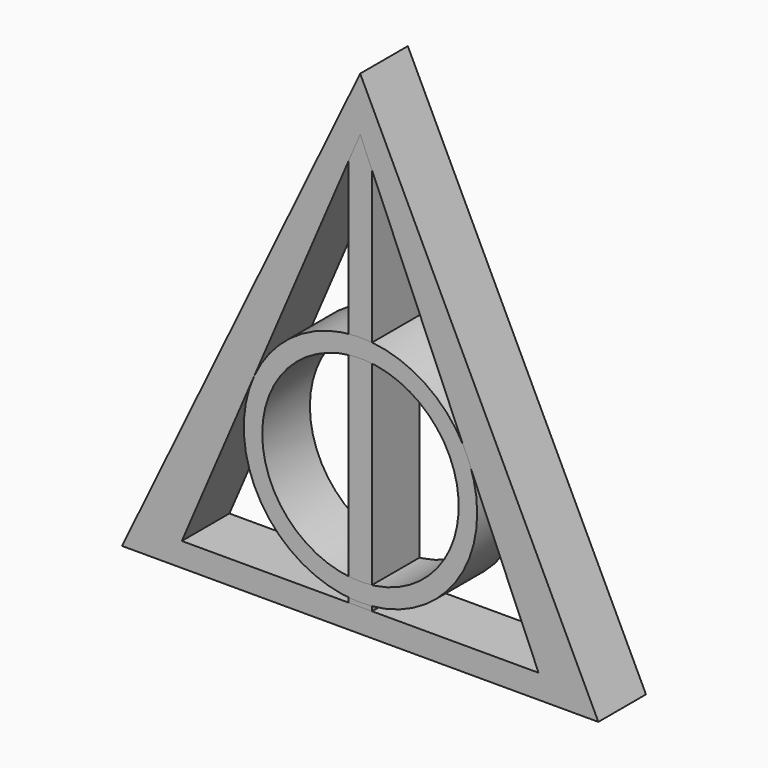
from build123d import *

# Parameters (mm, degrees)
F1_DEPTH  = 6.35
F3_DEPTH  = 25.4
F5_DEPTH  = 6.35
F6_R      = 12.446
F7_DEPTH  = 6.35
F9_D      = 20.955
F10_R     = 5.960066411
F11_DEPTH = 6.35
F12_DEPTH = 6.35


with BuildPart() as f1:
    # F0 (on Front) → F1 (new body)
    with BuildSketch(Plane.XZ):
        Polygon((25.4, 52.6092805501), (0, 0), (50.8, 0), align=None)
    extrude(amount=F1_DEPTH)

    # F2 (on face) → F3 (cut)
    with BuildSketch(Plane.XZ.offset(6.35)):
        Polygon((25.4, 46.8921025291), (6.3758416416, 2.54), (44.4241583584, 2.54), align=None)
    extrude(amount=-F3_DEPTH, mode=Mode.SUBTRACT)

    # F10 (on face) → F11 (join)
    with BuildSketch(Plane(origin=(0, 0, 0), x_dir=(0, -1, 0), z_dir=(-0.9005354425, 0, 0.4347826087))):
        with Locations((3.175, 58.42)):
            Circle(F10_R)
    extrude(amount=F11_DEPTH)

    # F12 (cut): a face of the model
    f12_faces = [f1.faces().sort_by_distance(p)[0] for p in [
        (19.6815999402, -3.175, 55.3701501153),
    ]]
    extrude(f12_faces, amount=-F12_DEPTH, mode=Mode.SUBTRACT)


with BuildPart() as f5:
    # F4 (on face) → F5 (new body)
    with BuildSketch(Plane.XZ.offset(6.35)):
        Polygon((25.4, 46.8921025291), (24.13, 43.9312792879), (24.13, 2.54), (26.67, 2.54), (26.67, 43.9312792879), align=None)
    extrude(amount=-F5_DEPTH)


with BuildPart() as f7:
    # F6 (on Front) → F7 (new body)
    with BuildSketch(Plane.XZ):
        with Locations((25.432904761, 15.3961197174)):
            Circle(F6_R)
    extrude(amount=F7_DEPTH)

    # F9 (through all)
    with Locations(Plane.XZ.offset(6.35)):
        with Locations((25.432904761, 15.3961197174)):
            Hole(F9_D / 2)


solid = Compound([f1.part, f5.part, f7.part])
